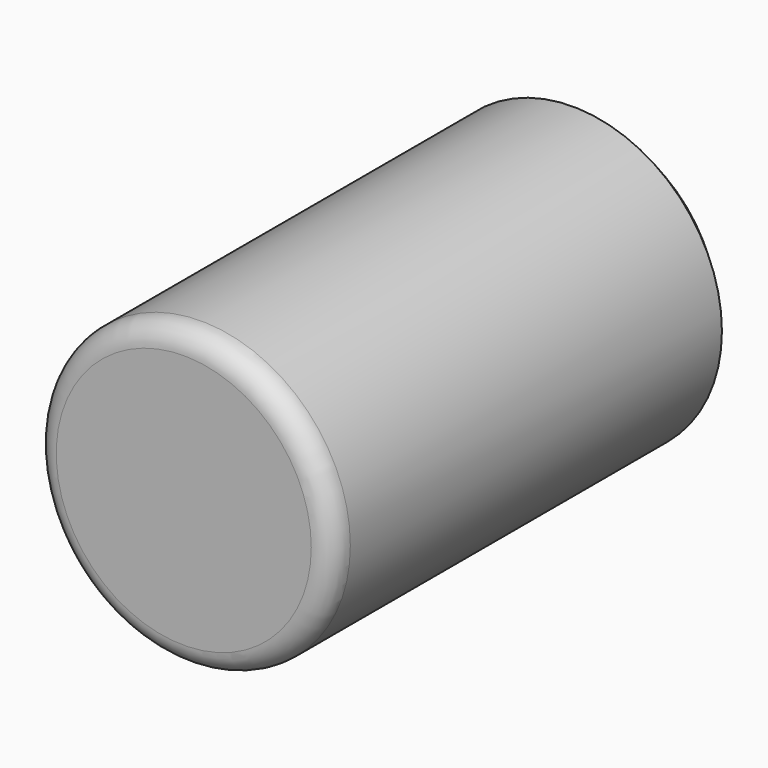
from build123d import *

# Parameters (mm, degrees)
F0_R     = 34.377817
F1_DEPTH = 117.094
F2_SIZE  = 5.08
F3_R     = 5


with BuildPart() as f1:
    # F0 (on Front) → F1 (new body)
    with BuildSketch(Plane.XZ):
        Circle(F0_R)
    extrude(amount=F1_DEPTH)

    # F2
    f2_edges = [f1.edges().sort_by_distance(p)[0] for p in [
        (-34.377817, 0, 0),
    ]]
    chamfer(f2_edges, length=F2_SIZE)

    # F3
    f3_edges = [f1.edges().sort_by_distance(p)[0] for p in [
        (-34.377817, -117.094, 0),
    ]]
    fillet(f3_edges, radius=F3_R)


solid = f1.part
